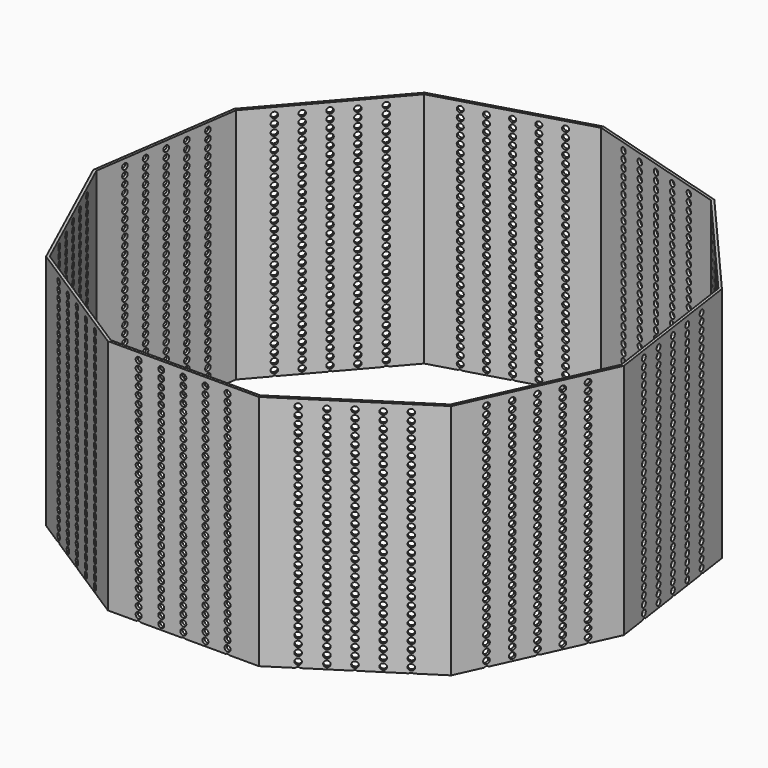
from build123d import *

# Parameters (mm, degrees)
CYLINDER_R         = 250
CYLINDER_DEPTH     = 201
PAD_DEPTH          = 400
SKETCH001_R        = 2.5
POCKET_DEPTH       = 5
POLARPATTERN_COUNT = 11


with BuildPart() as cylinder:
    # Cylinder → Cylinder (new body)
    with BuildSketch(Plane.XY):
        Circle(CYLINDER_R)
    extrude(amount=CYLINDER_DEPTH)


with BuildPart() as cut:
    # Sketch → Pad (new body)
    with BuildSketch(Plane.XY):
        Polygon((0, 225), (-121.644184, 189.282045), (-204.667199, 93.468378), (-222.709824, -32.020839), (-170.043654, -147.343665), (-63.389825, -215.885919), (63.389825, -215.885919), (170.043654, -147.343665), (222.709824, -32.020839), (204.667199, 93.468378), (121.644184, 189.282045), align=None)
        Polygon((0, 222.6), (-120.346646, 187.263036), (-202.484082, 92.471382), (-220.334253, -31.679283), (-168.229855, -145.771999), (-62.713667, -213.583136), (62.713667, -213.583136), (168.229855, -145.771999), (220.334253, -31.679283), (202.484082, 92.471382), (120.346646, 187.263036), align=None, mode=Mode.SUBTRACT)
    extrude(amount=PAD_DEPTH)

    # Sketch001 (on Face6 of Pad) → Pocket (cut)
    with BuildSketch(Plane.XZ.offset(215.885919)):
        with Locations((0, 4)):
            Circle(SKETCH001_R)
        with Locations((0, 10.5)):
            Circle(SKETCH001_R)
        with Locations((0, 17)):
            Circle(SKETCH001_R)
        with Locations((0, 23.5)):
            Circle(SKETCH001_R)
        with Locations((0, 30)):
            Circle(SKETCH001_R)
        with Locations((0, 36.5)):
            Circle(SKETCH001_R)
        with Locations((0, 43)):
            Circle(SKETCH001_R)
        with Locations((0, 49.5)):
            Circle(SKETCH001_R)
        with Locations((0, 56)):
            Circle(SKETCH001_R)
        with Locations((0, 62.5)):
            Circle(SKETCH001_R)
        with Locations((0, 69)):
            Circle(SKETCH001_R)
        with Locations((0, 75.5)):
            Circle(SKETCH001_R)
        with Locations((0, 82)):
            Circle(SKETCH001_R)
        with Locations((0, 88.5)):
            Circle(SKETCH001_R)
        with Locations((0, 95)):
            Circle(SKETCH001_R)
        with Locations((0, 101.5)):
            Circle(SKETCH001_R)
        with Locations((0, 108)):
            Circle(SKETCH001_R)
        with Locations((0, 114.5)):
            Circle(SKETCH001_R)
        with Locations((0, 121)):
            Circle(SKETCH001_R)
        with Locations((0, 127.5)):
            Circle(SKETCH001_R)
        with Locations((0, 134)):
            Circle(SKETCH001_R)
        with Locations((0, 140.5)):
            Circle(SKETCH001_R)
        with Locations((0, 147)):
            Circle(SKETCH001_R)
        with Locations((0, 153.5)):
            Circle(SKETCH001_R)
        with Locations((0, 160)):
            Circle(SKETCH001_R)
        with Locations((0, 166.5)):
            Circle(SKETCH001_R)
        with Locations((0, 173)):
            Circle(SKETCH001_R)
        with Locations((0.122363, 179.5)):
            Circle(SKETCH001_R)
        with Locations((0, 186)):
            Circle(SKETCH001_R)
        with Locations((0, 192.5)):
            Circle(SKETCH001_R)
        with Locations((0, 199)):
            Circle(SKETCH001_R)
        with Locations((0, 205.5)):
            Circle(SKETCH001_R)
        with Locations((0, 212)):
            Circle(SKETCH001_R)
        with Locations((0, 218.5)):
            Circle(SKETCH001_R)
        with Locations((0, 225)):
            Circle(SKETCH001_R)
        with Locations((0, 231.5)):
            Circle(SKETCH001_R)
        with Locations((0, 238)):
            Circle(SKETCH001_R)
        with Locations((0, 244.5)):
            Circle(SKETCH001_R)
        with Locations((0, 251)):
            Circle(SKETCH001_R)
        with Locations((0, 257.5)):
            Circle(SKETCH001_R)
        with Locations((0, 264)):
            Circle(SKETCH001_R)
        with Locations((0, 270.5)):
            Circle(SKETCH001_R)
        with Locations((0, 277)):
            Circle(SKETCH001_R)
        with Locations((0, 283.5)):
            Circle(SKETCH001_R)
        with Locations((0, 290)):
            Circle(SKETCH001_R)
        with Locations((0, 296.5)):
            Circle(SKETCH001_R)
        with Locations((0, 303)):
            Circle(SKETCH001_R)
        with Locations((0, 309.5)):
            Circle(SKETCH001_R)
        with Locations((0, 316)):
            Circle(SKETCH001_R)
        with Locations((0, 322.5)):
            Circle(SKETCH001_R)
        with Locations((0, 329)):
            Circle(SKETCH001_R)
        with Locations((0, 335.5)):
            Circle(SKETCH001_R)
        with Locations((0, 342)):
            Circle(SKETCH001_R)
        with Locations((0, 348.5)):
            Circle(SKETCH001_R)
        with Locations((0, 355)):
            Circle(SKETCH001_R)
        with Locations((0, 361.5)):
            Circle(SKETCH001_R)
        with Locations((0, 368)):
            Circle(SKETCH001_R)
        with Locations((0, 374.5)):
            Circle(SKETCH001_R)
        with Locations((0, 381)):
            Circle(SKETCH001_R)
        with Locations((0, 387.5)):
            Circle(SKETCH001_R)
        with Locations((0, 394)):
            Circle(SKETCH001_R)
        with Locations((-37.509197, 4.22818)):
            Circle(SKETCH001_R)
        with Locations((-37.509197, 10.72818)):
            Circle(SKETCH001_R)
        with Locations((-37.509197, 17.22818)):
            Circle(SKETCH001_R)
        with Locations((-37.509197, 23.72818)):
            Circle(SKETCH001_R)
        with Locations((-37.509197, 30.22818)):
            Circle(SKETCH001_R)
        with Locations((-37.509197, 36.72818)):
            Circle(SKETCH001_R)
        with Locations((-37.509197, 43.22818)):
            Circle(SKETCH001_R)
        with Locations((-37.509197, 49.72818)):
            Circle(SKETCH001_R)
        with Locations((-37.509197, 56.22818)):
            Circle(SKETCH001_R)
        with Locations((-37.509197, 62.72818)):
            Circle(SKETCH001_R)
        with Locations((-37.509197, 69.22818)):
            Circle(SKETCH001_R)
        with Locations((-37.509197, 75.72818)):
            Circle(SKETCH001_R)
        with Locations((-37.509197, 82.22818)):
            Circle(SKETCH001_R)
        with Locations((-37.509197, 88.72818)):
            Circle(SKETCH001_R)
        with Locations((-37.509197, 95.22818)):
            Circle(SKETCH001_R)
        with Locations((-37.509197, 101.72818)):
            Circle(SKETCH001_R)
        with Locations((-37.509197, 108.22818)):
            Circle(SKETCH001_R)
        with Locations((-37.509197, 114.72818)):
            Circle(SKETCH001_R)
        with Locations((-37.509197, 121.22818)):
            Circle(SKETCH001_R)
        with Locations((-37.509197, 127.72818)):
            Circle(SKETCH001_R)
        with Locations((-37.509197, 134.22818)):
            Circle(SKETCH001_R)
        with Locations((-37.509197, 140.72818)):
            Circle(SKETCH001_R)
        with Locations((-37.509197, 147.22818)):
            Circle(SKETCH001_R)
        with Locations((-37.509197, 153.72818)):
            Circle(SKETCH001_R)
        with Locations((-37.509197, 160.22818)):
            Circle(SKETCH001_R)
        with Locations((-37.509197, 166.72818)):
            Circle(SKETCH001_R)
        with Locations((-37.509197, 173.22818)):
            Circle(SKETCH001_R)
        with Locations((-37.386834, 179.72818)):
            Circle(SKETCH001_R)
        with Locations((-37.509197, 186.22818)):
            Circle(SKETCH001_R)
        with Locations((-37.509197, 192.72818)):
            Circle(SKETCH001_R)
        with Locations((-37.509197, 199.22818)):
            Circle(SKETCH001_R)
        with Locations((-37.509197, 205.72818)):
            Circle(SKETCH001_R)
        with Locations((-37.509197, 212.22818)):
            Circle(SKETCH001_R)
        with Locations((-37.509197, 218.72818)):
            Circle(SKETCH001_R)
        with Locations((-37.509197, 225.22818)):
            Circle(SKETCH001_R)
        with Locations((-37.509197, 231.72818)):
            Circle(SKETCH001_R)
        with Locations((-37.509197, 238.22818)):
            Circle(SKETCH001_R)
        with Locations((-37.509197, 244.72818)):
            Circle(SKETCH001_R)
        with Locations((-37.509197, 251.22818)):
            Circle(SKETCH001_R)
        with Locations((-37.509197, 257.72818)):
            Circle(SKETCH001_R)
        with Locations((-37.509197, 264.22818)):
            Circle(SKETCH001_R)
        with Locations((-37.509197, 270.72818)):
            Circle(SKETCH001_R)
        with Locations((-37.509197, 277.22818)):
            Circle(SKETCH001_R)
        with Locations((-37.509197, 283.72818)):
            Circle(SKETCH001_R)
        with Locations((-37.509197, 290.22818)):
            Circle(SKETCH001_R)
        with Locations((-37.509197, 296.72818)):
            Circle(SKETCH001_R)
        with Locations((-37.509197, 303.22818)):
            Circle(SKETCH001_R)
        with Locations((-37.509197, 309.72818)):
            Circle(SKETCH001_R)
        with Locations((-37.509197, 316.22818)):
            Circle(SKETCH001_R)
        with Locations((-37.509197, 322.72818)):
            Circle(SKETCH001_R)
        with Locations((-37.509197, 329.22818)):
            Circle(SKETCH001_R)
        with Locations((-37.509197, 335.72818)):
            Circle(SKETCH001_R)
        with Locations((-37.509197, 342.22818)):
            Circle(SKETCH001_R)
        with Locations((-37.509197, 348.72818)):
            Circle(SKETCH001_R)
        with Locations((-37.509197, 355.22818)):
            Circle(SKETCH001_R)
        with Locations((-37.509197, 361.72818)):
            Circle(SKETCH001_R)
        with Locations((-37.509197, 368.22818)):
            Circle(SKETCH001_R)
        with Locations((-37.509197, 374.72818)):
            Circle(SKETCH001_R)
        with Locations((-37.509197, 381.22818)):
            Circle(SKETCH001_R)
        with Locations((-37.509197, 387.72818)):
            Circle(SKETCH001_R)
        with Locations((-37.509197, 394.22818)):
            Circle(SKETCH001_R)
        with Locations((37.120712, 4.026398)):
            Circle(SKETCH001_R)
        with Locations((37.120712, 10.526398)):
            Circle(SKETCH001_R)
        with Locations((37.120712, 17.026398)):
            Circle(SKETCH001_R)
        with Locations((37.120712, 23.526398)):
            Circle(SKETCH001_R)
        with Locations((37.120712, 30.026398)):
            Circle(SKETCH001_R)
        with Locations((37.120712, 36.526398)):
            Circle(SKETCH001_R)
        with Locations((37.120712, 43.026398)):
            Circle(SKETCH001_R)
        with Locations((37.120712, 49.526398)):
            Circle(SKETCH001_R)
        with Locations((37.120712, 56.026398)):
            Circle(SKETCH001_R)
        with Locations((37.120712, 62.526398)):
            Circle(SKETCH001_R)
        with Locations((37.120712, 69.026398)):
            Circle(SKETCH001_R)
        with Locations((37.120712, 75.526398)):
            Circle(SKETCH001_R)
        with Locations((37.120712, 82.026398)):
            Circle(SKETCH001_R)
        with Locations((37.120712, 88.526398)):
            Circle(SKETCH001_R)
        with Locations((37.120712, 95.026398)):
            Circle(SKETCH001_R)
        with Locations((37.120712, 101.526398)):
            Circle(SKETCH001_R)
        with Locations((37.120712, 108.026398)):
            Circle(SKETCH001_R)
        with Locations((37.120712, 114.526398)):
            Circle(SKETCH001_R)
        with Locations((37.120712, 121.026398)):
            Circle(SKETCH001_R)
        with Locations((37.120712, 127.526398)):
            Circle(SKETCH001_R)
        with Locations((37.120712, 134.026398)):
            Circle(SKETCH001_R)
        with Locations((37.120712, 140.526398)):
            Circle(SKETCH001_R)
        with Locations((37.120712, 147.026398)):
            Circle(SKETCH001_R)
        with Locations((37.120712, 153.526398)):
            Circle(SKETCH001_R)
        with Locations((37.120712, 160.026398)):
            Circle(SKETCH001_R)
        with Locations((37.120712, 166.526398)):
            Circle(SKETCH001_R)
        with Locations((37.120712, 173.026398)):
            Circle(SKETCH001_R)
        with Locations((37.243075, 179.526398)):
            Circle(SKETCH001_R)
        with Locations((37.120712, 186.026398)):
            Circle(SKETCH001_R)
        with Locations((37.120712, 192.526398)):
            Circle(SKETCH001_R)
        with Locations((37.120712, 199.026398)):
            Circle(SKETCH001_R)
        with Locations((37.120712, 205.526398)):
            Circle(SKETCH001_R)
        with Locations((37.120712, 212.026398)):
            Circle(SKETCH001_R)
        with Locations((37.120712, 218.526398)):
            Circle(SKETCH001_R)
        with Locations((37.120712, 225.026398)):
            Circle(SKETCH001_R)
        with Locations((37.120712, 231.526398)):
            Circle(SKETCH001_R)
        with Locations((37.120712, 238.026398)):
            Circle(SKETCH001_R)
        with Locations((37.120712, 244.526398)):
            Circle(SKETCH001_R)
        with Locations((37.120712, 251.026398)):
            Circle(SKETCH001_R)
        with Locations((37.120712, 257.526398)):
            Circle(SKETCH001_R)
        with Locations((37.120712, 264.026398)):
            Circle(SKETCH001_R)
        with Locations((37.120712, 270.526398)):
            Circle(SKETCH001_R)
        with Locations((37.120712, 277.026398)):
            Circle(SKETCH001_R)
        with Locations((37.120712, 283.526398)):
            Circle(SKETCH001_R)
        with Locations((37.120712, 290.026398)):
            Circle(SKETCH001_R)
        with Locations((37.120712, 296.526398)):
            Circle(SKETCH001_R)
        with Locations((37.120712, 303.026398)):
            Circle(SKETCH001_R)
        with Locations((37.120712, 309.526398)):
            Circle(SKETCH001_R)
        with Locations((37.120712, 316.026398)):
            Circle(SKETCH001_R)
        with Locations((37.120712, 322.526398)):
            Circle(SKETCH001_R)
        with Locations((37.120712, 329.026398)):
            Circle(SKETCH001_R)
        with Locations((37.120712, 335.526398)):
            Circle(SKETCH001_R)
        with Locations((37.120712, 342.026398)):
            Circle(SKETCH001_R)
        with Locations((37.120712, 348.526398)):
            Circle(SKETCH001_R)
        with Locations((37.120712, 355.026398)):
            Circle(SKETCH001_R)
        with Locations((37.120712, 361.526398)):
            Circle(SKETCH001_R)
        with Locations((37.120712, 368.026398)):
            Circle(SKETCH001_R)
        with Locations((37.120712, 374.526398)):
            Circle(SKETCH001_R)
        with Locations((37.120712, 381.026398)):
            Circle(SKETCH001_R)
        with Locations((37.120712, 387.526398)):
            Circle(SKETCH001_R)
        with Locations((37.120712, 394.026398)):
            Circle(SKETCH001_R)
        with Locations((-18.522346, 3.531799)):
            Circle(SKETCH001_R)
        with Locations((-18.522346, 10.031799)):
            Circle(SKETCH001_R)
        with Locations((-18.522346, 16.531799)):
            Circle(SKETCH001_R)
        with Locations((-18.522346, 23.031799)):
            Circle(SKETCH001_R)
        with Locations((-18.522346, 29.531799)):
            Circle(SKETCH001_R)
        with Locations((-18.522346, 36.031799)):
            Circle(SKETCH001_R)
        with Locations((-18.522346, 42.531799)):
            Circle(SKETCH001_R)
        with Locations((-18.522346, 49.031799)):
            Circle(SKETCH001_R)
        with Locations((-18.522346, 55.531799)):
            Circle(SKETCH001_R)
        with Locations((-18.522346, 62.031799)):
            Circle(SKETCH001_R)
        with Locations((-18.522346, 68.531799)):
            Circle(SKETCH001_R)
        with Locations((-18.522346, 75.031799)):
            Circle(SKETCH001_R)
        with Locations((-18.522346, 81.531799)):
            Circle(SKETCH001_R)
        with Locations((-18.522346, 88.031799)):
            Circle(SKETCH001_R)
        with Locations((-18.522346, 94.531799)):
            Circle(SKETCH001_R)
        with Locations((-18.522346, 101.031799)):
            Circle(SKETCH001_R)
        with Locations((-18.522346, 107.531799)):
            Circle(SKETCH001_R)
        with Locations((-18.522346, 114.031799)):
            Circle(SKETCH001_R)
        with Locations((-18.522346, 120.531799)):
            Circle(SKETCH001_R)
        with Locations((-18.522346, 127.031799)):
            Circle(SKETCH001_R)
        with Locations((-18.522346, 133.531799)):
            Circle(SKETCH001_R)
        with Locations((-18.522346, 140.031799)):
            Circle(SKETCH001_R)
        with Locations((-18.522346, 146.531799)):
            Circle(SKETCH001_R)
        with Locations((-18.522346, 153.031799)):
            Circle(SKETCH001_R)
        with Locations((-18.522346, 159.531799)):
            Circle(SKETCH001_R)
        with Locations((-18.522346, 166.031799)):
            Circle(SKETCH001_R)
        with Locations((-18.522346, 172.531799)):
            Circle(SKETCH001_R)
        with Locations((-18.399983, 179.031799)):
            Circle(SKETCH001_R)
        with Locations((-18.522346, 185.531799)):
            Circle(SKETCH001_R)
        with Locations((-18.522346, 192.031799)):
            Circle(SKETCH001_R)
        with Locations((-18.522346, 198.531799)):
            Circle(SKETCH001_R)
        with Locations((-18.522346, 205.031799)):
            Circle(SKETCH001_R)
        with Locations((-18.522346, 211.531799)):
            Circle(SKETCH001_R)
        with Locations((-18.522346, 218.031799)):
            Circle(SKETCH001_R)
        with Locations((-18.522346, 224.531799)):
            Circle(SKETCH001_R)
        with Locations((-18.522346, 231.031799)):
            Circle(SKETCH001_R)
        with Locations((-18.522346, 237.531799)):
            Circle(SKETCH001_R)
        with Locations((-18.522346, 244.031799)):
            Circle(SKETCH001_R)
        with Locations((-18.522346, 250.531799)):
            Circle(SKETCH001_R)
        with Locations((-18.522346, 257.031799)):
            Circle(SKETCH001_R)
        with Locations((-18.522346, 263.531799)):
            Circle(SKETCH001_R)
        with Locations((-18.522346, 270.031799)):
            Circle(SKETCH001_R)
        with Locations((-18.522346, 276.531799)):
            Circle(SKETCH001_R)
        with Locations((-18.522346, 283.031799)):
            Circle(SKETCH001_R)
        with Locations((-18.522346, 289.531799)):
            Circle(SKETCH001_R)
        with Locations((-18.522346, 296.031799)):
            Circle(SKETCH001_R)
        with Locations((-18.522346, 302.531799)):
            Circle(SKETCH001_R)
        with Locations((-18.522346, 309.031799)):
            Circle(SKETCH001_R)
        with Locations((-18.522346, 315.531799)):
            Circle(SKETCH001_R)
        with Locations((-18.522346, 322.031799)):
            Circle(SKETCH001_R)
        with Locations((-18.522346, 328.531799)):
            Circle(SKETCH001_R)
        with Locations((-18.522346, 335.031799)):
            Circle(SKETCH001_R)
        with Locations((-18.522346, 341.531799)):
            Circle(SKETCH001_R)
        with Locations((-18.522346, 348.031799)):
            Circle(SKETCH001_R)
        with Locations((-18.522346, 354.531799)):
            Circle(SKETCH001_R)
        with Locations((-18.522346, 361.031799)):
            Circle(SKETCH001_R)
        with Locations((-18.522346, 367.531799)):
            Circle(SKETCH001_R)
        with Locations((-18.522346, 374.031799)):
            Circle(SKETCH001_R)
        with Locations((-18.522346, 380.531799)):
            Circle(SKETCH001_R)
        with Locations((-18.522346, 387.031799)):
            Circle(SKETCH001_R)
        with Locations((-18.522346, 393.531799)):
            Circle(SKETCH001_R)
        with Locations((18.573008, 3.531799)):
            Circle(SKETCH001_R)
        with Locations((18.573008, 10.031799)):
            Circle(SKETCH001_R)
        with Locations((18.573008, 16.531799)):
            Circle(SKETCH001_R)
        with Locations((18.573008, 23.031799)):
            Circle(SKETCH001_R)
        with Locations((18.573008, 29.531799)):
            Circle(SKETCH001_R)
        with Locations((18.573008, 36.031799)):
            Circle(SKETCH001_R)
        with Locations((18.573008, 42.531799)):
            Circle(SKETCH001_R)
        with Locations((18.573008, 49.031799)):
            Circle(SKETCH001_R)
        with Locations((18.573008, 55.531799)):
            Circle(SKETCH001_R)
        with Locations((18.573008, 62.031799)):
            Circle(SKETCH001_R)
        with Locations((18.573008, 68.531799)):
            Circle(SKETCH001_R)
        with Locations((18.573008, 75.031799)):
            Circle(SKETCH001_R)
        with Locations((18.573008, 81.531799)):
            Circle(SKETCH001_R)
        with Locations((18.573008, 88.031799)):
            Circle(SKETCH001_R)
        with Locations((18.573008, 94.531799)):
            Circle(SKETCH001_R)
        with Locations((18.573008, 101.031799)):
            Circle(SKETCH001_R)
        with Locations((18.573008, 107.531799)):
            Circle(SKETCH001_R)
        with Locations((18.573008, 114.031799)):
            Circle(SKETCH001_R)
        with Locations((18.573008, 120.531799)):
            Circle(SKETCH001_R)
        with Locations((18.573008, 127.031799)):
            Circle(SKETCH001_R)
        with Locations((18.573008, 133.531799)):
            Circle(SKETCH001_R)
        with Locations((18.573008, 140.031799)):
            Circle(SKETCH001_R)
        with Locations((18.573008, 146.531799)):
            Circle(SKETCH001_R)
        with Locations((18.573008, 153.031799)):
            Circle(SKETCH001_R)
        with Locations((18.573008, 159.531799)):
            Circle(SKETCH001_R)
        with Locations((18.573008, 166.031799)):
            Circle(SKETCH001_R)
        with Locations((18.573008, 172.531799)):
            Circle(SKETCH001_R)
        with Locations((18.695371, 179.031799)):
            Circle(SKETCH001_R)
        with Locations((18.573008, 185.531799)):
            Circle(SKETCH001_R)
        with Locations((18.573008, 192.031799)):
            Circle(SKETCH001_R)
        with Locations((18.573008, 198.531799)):
            Circle(SKETCH001_R)
        with Locations((18.573008, 205.031799)):
            Circle(SKETCH001_R)
        with Locations((18.573008, 211.531799)):
            Circle(SKETCH001_R)
        with Locations((18.573008, 218.031799)):
            Circle(SKETCH001_R)
        with Locations((18.573008, 224.531799)):
            Circle(SKETCH001_R)
        with Locations((18.573008, 231.031799)):
            Circle(SKETCH001_R)
        with Locations((18.573008, 237.531799)):
            Circle(SKETCH001_R)
        with Locations((18.573008, 244.031799)):
            Circle(SKETCH001_R)
        with Locations((18.573008, 250.531799)):
            Circle(SKETCH001_R)
        with Locations((18.573008, 257.031799)):
            Circle(SKETCH001_R)
        with Locations((18.573008, 263.531799)):
            Circle(SKETCH001_R)
        with Locations((18.573008, 270.031799)):
            Circle(SKETCH001_R)
        with Locations((18.573008, 276.531799)):
            Circle(SKETCH001_R)
        with Locations((18.573008, 283.031799)):
            Circle(SKETCH001_R)
        with Locations((18.573008, 289.531799)):
            Circle(SKETCH001_R)
        with Locations((18.573008, 296.031799)):
            Circle(SKETCH001_R)
        with Locations((18.573008, 302.531799)):
            Circle(SKETCH001_R)
        with Locations((18.573008, 309.031799)):
            Circle(SKETCH001_R)
        with Locations((18.573008, 315.531799)):
            Circle(SKETCH001_R)
        with Locations((18.573008, 322.031799)):
            Circle(SKETCH001_R)
        with Locations((18.573008, 328.531799)):
            Circle(SKETCH001_R)
        with Locations((18.573008, 335.031799)):
            Circle(SKETCH001_R)
        with Locations((18.573008, 341.531799)):
            Circle(SKETCH001_R)
        with Locations((18.573008, 348.031799)):
            Circle(SKETCH001_R)
        with Locations((18.573008, 354.531799)):
            Circle(SKETCH001_R)
        with Locations((18.573008, 361.031799)):
            Circle(SKETCH001_R)
        with Locations((18.573008, 367.531799)):
            Circle(SKETCH001_R)
        with Locations((18.573008, 374.031799)):
            Circle(SKETCH001_R)
        with Locations((18.573008, 380.531799)):
            Circle(SKETCH001_R)
        with Locations((18.573008, 387.031799)):
            Circle(SKETCH001_R)
        with Locations((18.573008, 393.531799)):
            Circle(SKETCH001_R)
    pocket = extrude(amount=-POCKET_DEPTH, mode=Mode.SUBTRACT)

    # PolarPattern: Pocket ×11 about axis
    polarpattern_axis = Axis((0, 0, 0), (0, 0, 1))
    for i in range(1, POLARPATTERN_COUNT):
        add(pocket.rotate(polarpattern_axis, i * 360 / POLARPATTERN_COUNT), mode=Mode.SUBTRACT)

    # Cut: cut Cylinder
    add(cylinder.part, mode=Mode.SUBTRACT)


solid = cut.part
